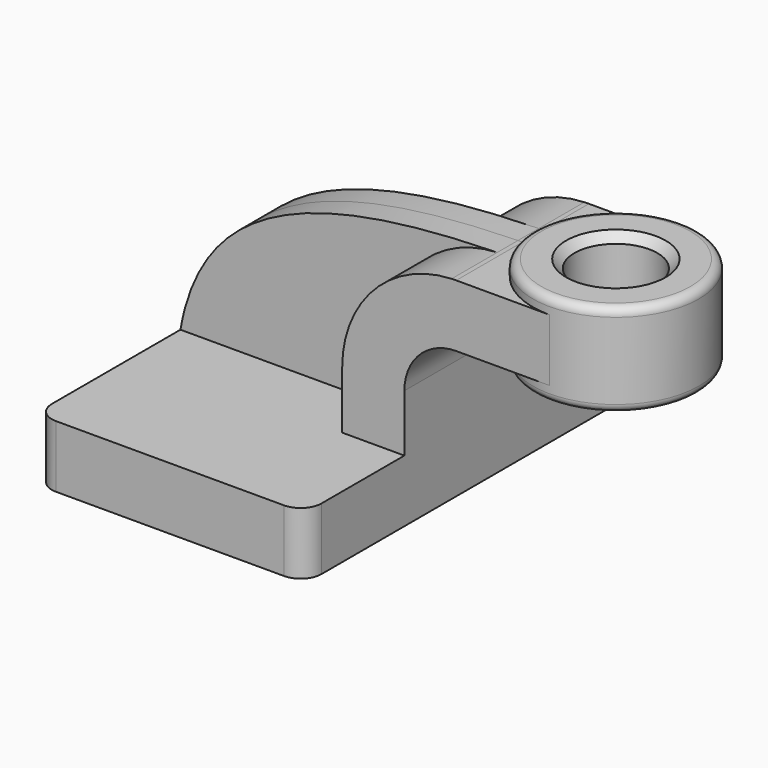
from build123d import *

# Parameters (mm, degrees)
F1_DEPTH = 63.5
F0_W     = 25.4
F0_H     = 19.05
F2_DEPTH = 25.4
F3_DEPTH = 7.9375
F5_R     = 6.35
F6_R     = 12.7
F7_DEPTH = 76.201
F8_R     = 2.54
F9_SIZE  = 2.54


with BuildPart() as f1:
    # F0 (on Front) → F1 (new body, symmetric)
    with BuildSketch(Plane.XZ):
        Polygon((-41.275, -9.525), (41.275, -9.525), (41.275, 9.525), (22.225, 9.525), (-41.275, 9.525), align=None)
    extrude(amount=F1_DEPTH, both=True)

    # F0 (on Front) → F2 (join, symmetric)
    with BuildSketch(Plane.XZ):
        with BuildLine():
            Line((22.225, 9.525), (41.275, 9.525))
            Line((41.275, 9.525), (41.275, 27.0002))
            ThreePointArc((41.275, 27.0002), (45.9246798487, 38.2255201513), (57.15, 42.8752))
            Line((57.15, 42.8752), (60.325, 42.8752))
            Line((60.325, 42.8752), (60.325, 61.9252))
            Line((60.325, 61.9252), (57.15, 61.9252))
            add(Edge.make_bspline(
                [(57.15, 61.9252), (56.6797844251, 61.9165132353), (56.2111060081, 61.9070782377), (55.7439674805, 61.896886054)],
                knots=[0, 0, 0, 0, 0.9174307887, 0.9174307887, 0.9174307887, 0.9174307887], degree=3))
            ThreePointArc((55.7439674805, 61.896886054), (31.9620930728, 51.1936902325), (22.225, 27.0002))
            Line((22.225, 27.0002), (22.225, 9.525))
        make_face()
        with Locations((73.025, 52.4002)):
            Rectangle(F0_W, F0_H)
    extrude(amount=F2_DEPTH, both=True)

    # F0 (on Front) → F3 (join, symmetric)
    with BuildSketch(Plane.XZ):
        with BuildLine():
            add(Edge.make_bspline(
                [(55.7439674805, 61.896886054), (-0.5649096696, 60.6683202624), (-34.4993601081, 48.437924622), (-41.275, 9.525)],
                knots=[0.9174307887, 0.9174307887, 0.9174307887, 0.9174307887, 111.5045361635, 111.5045361635, 111.5045361635, 111.5045361635], degree=3))
            Line((-41.275, 9.525), (22.225, 9.525))
            Line((22.225, 9.525), (22.225, 27.0002))
            ThreePointArc((22.225, 27.0002), (31.9620930728, 51.1936902325), (55.7439674805, 61.896886054))
        make_face()
    extrude(amount=F3_DEPTH, both=True)

    # F0 (on Front) → F4 (revolve)
    with BuildSketch(Plane.XZ):
        Polygon((85.725, 61.9252), (85.725, 42.8752), (85.725, 38.1), (111.125, 38.1), (111.125, 66.675), (85.725, 66.675), align=None)
    revolve(axis=Axis((85.725, 0, 52.3875), (0, 0, 1)))

    # F5
    f5_edges = [f1.edges().sort_by_distance(p)[0] for p in [
        (-41.275, -63.5, 0),
        (41.275, -63.5, 0),
        (41.275, 63.5, 0),
        (-41.275, 63.5, 0),
    ]]
    fillet(f5_edges, radius=F5_R)

    # F6 (on face) → F7 (cut, through all)
    with BuildSketch(Plane.XY.offset(66.675)):
        with Locations((85.725, 0)):
            Circle(F6_R)
    extrude(amount=-F7_DEPTH, mode=Mode.SUBTRACT)

    # F8
    f8_edges = [f1.edges().sort_by_distance(p)[0] for p in [
        (60.325, 0, 66.675),
        (60.325, 0, 38.1),
    ]]
    fillet(f8_edges, radius=F8_R)

    # F9
    f9_edges = [f1.edges().sort_by_distance(p)[0] for p in [
        (73.025, 0, 66.675),
        (73.025, 0, 38.1),
    ]]
    chamfer(f9_edges, length=F9_SIZE)


solid = f1.part
